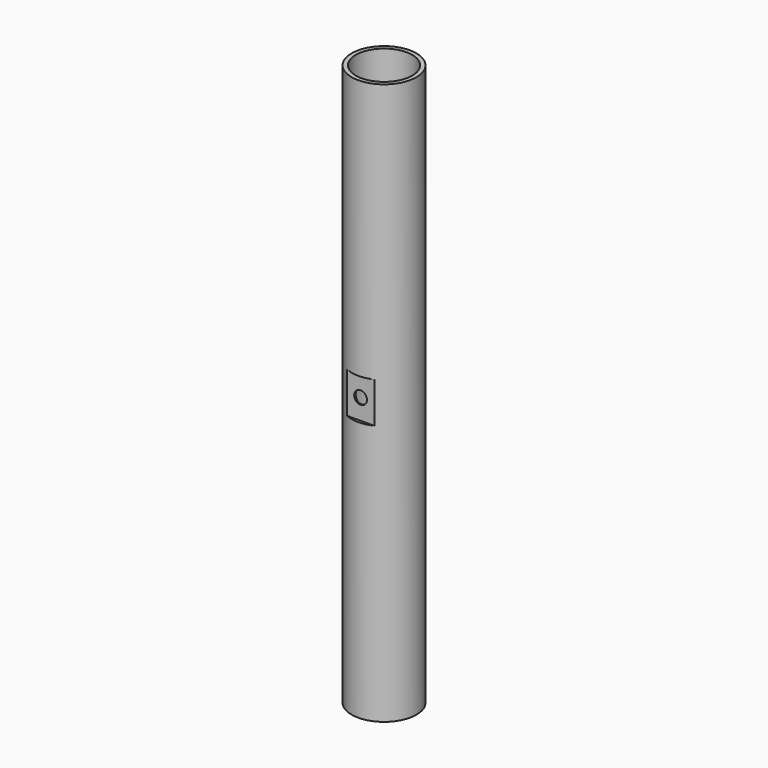
from build123d import *

# Parameters (mm, degrees)
F0_R      = 12.7
F0_R_2    = 11.049
F1_DEPTH  = 220
F5_R      = 6.5
F6_DEPTH  = 15
F7_W      = 37.640377
F7_H      = 22
F8_DEPTH  = 1.2
F9_R      = 2.5
F10_DEPTH = 15
F11_W     = 50.336801
F11_H     = 16
F12_DEPTH = 1.2


with BuildPart() as f1:
    # F0 (on Top) → F1 (new body)
    with BuildSketch(Plane.XY):
        Circle(F0_R)
        Circle(F0_R_2, mode=Mode.SUBTRACT)
    extrude(amount=F1_DEPTH)

    # F5 (on offset) → F6 (cut)
    with BuildSketch(Plane.XZ.offset(-12.7)):
        with Locations((0, 110)):
            Circle(F5_R)
    extrude(amount=F6_DEPTH, mode=Mode.SUBTRACT)

    # F7 (on offset) → F8 (cut)
    with BuildSketch(Plane.XZ.offset(-12.7)):
        with Locations((-0.882831, 110)):
            Rectangle(F7_W, F7_H)
    extrude(amount=F8_DEPTH, mode=Mode.SUBTRACT)

    # F9 (on offset) → F10 (cut)
    with BuildSketch(Plane.XZ.offset(12.7)):
        with Locations((0, 110)):
            Circle(F9_R)
    extrude(amount=-F10_DEPTH, mode=Mode.SUBTRACT)

    # F11 (on offset) → F12 (cut)
    with BuildSketch(Plane.XZ.offset(12.7)):
        with Locations((-0.771954, 110)):
            Rectangle(F11_W, F11_H)
    extrude(amount=-F12_DEPTH, mode=Mode.SUBTRACT)


solid = f1.part
